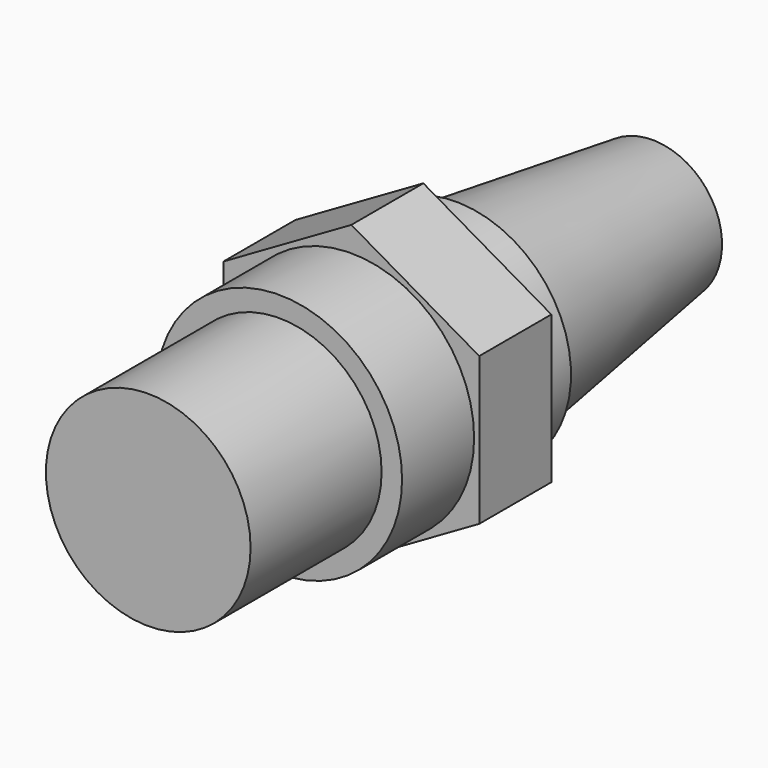
from build123d import *

# Parameters (mm, degrees)
F1_DEPTH = 2.794
F2_R     = 3.81
F3_DEPTH = 2.794
F4_R     = 3.175
F5_DEPTH = 5.08
F6_R     = 3.5648567011
F7_DEPTH = 1.27
F8_R     = 3.2240766962
F9_DEPTH = 7.62
F9_TAPER = 8


with BuildPart() as f1:
    # F0 (on Front) → F1 (new body)
    with BuildSketch(Plane.XZ):
        Polygon((3.96875, -2.2913588808), (3.96875, 2.2913588808), (0, 4.5827177617), (-3.96875, 2.2913588808), (-3.96875, -2.2913588808), (0, -4.5827177617), align=None)
    extrude(amount=F1_DEPTH)

    # F2 (on face) → F3 (join)
    with BuildSketch(Plane.XZ.offset(2.794)):
        Circle(F2_R)
    extrude(amount=F3_DEPTH)

    # F4 (on face) → F5 (join)
    with BuildSketch(Plane.XZ.offset(5.588)):
        Circle(F4_R)
    extrude(amount=F5_DEPTH)

    # F6 (on face) → F7 (join)
    with BuildSketch(Plane(origin=(0, 0, 0), x_dir=(-1, 0, 0), z_dir=(0, 1, 0))):
        Circle(F6_R)
    extrude(amount=F7_DEPTH)

    # F8 (on face) → F9 (join)
    with BuildSketch(Plane(origin=(0, 1.27, 0), x_dir=(-1, 0, 0), z_dir=(0, 1, 0))):
        Circle(F8_R)
    extrude(amount=F9_DEPTH, taper=F9_TAPER)


solid = f1.part
